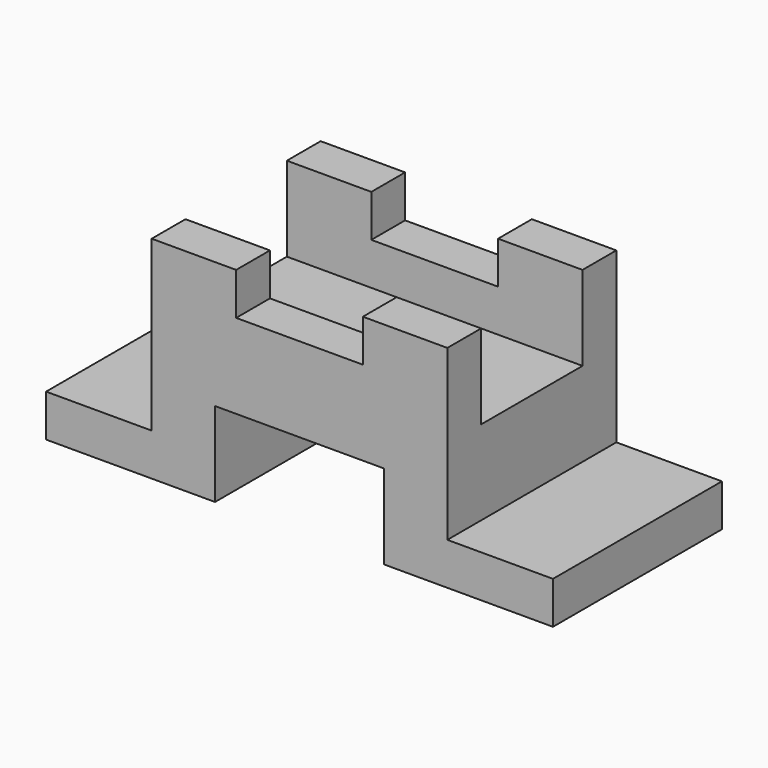
from build123d import *

# Parameters (mm, degrees)
F1_W     = 120
F1_H     = 50
F2_DEPTH = 50
F3_W     = 40
F3_H     = 40
F3_W_2   = 30
F3_H_2   = 20
F3_W_3   = 25
F4_DEPTH = 50
F5_W     = 30
F5_H     = 40
F6_DEPTH = 70


with BuildPart() as f2:
    # F1 (on Top) → F2 (new body)
    with BuildSketch(Plane.XY):
        Rectangle(F1_W, F1_H)
    extrude(amount=F2_DEPTH)

    # F3 (on face) → F4 (cut)
    with BuildSketch(Plane.XZ.offset(25)):
        Rectangle(F3_W, F3_H)
        with Locations((0, 50)):
            Rectangle(F3_W_2, F3_H_2)
        with Locations((-47.5, 30)):
            Rectangle(F3_W_3, F3_H)
        with Locations((47.5, 30)):
            Rectangle(F3_W_3, F3_H)
    extrude(amount=-F4_DEPTH, mode=Mode.SUBTRACT)

    # F5 (on face) → F6 (cut)
    with BuildSketch(Plane.YZ.offset(35)):
        with Locations((0, 50)):
            Rectangle(F5_W, F5_H)
    extrude(amount=-F6_DEPTH, mode=Mode.SUBTRACT)


solid = f2.part
